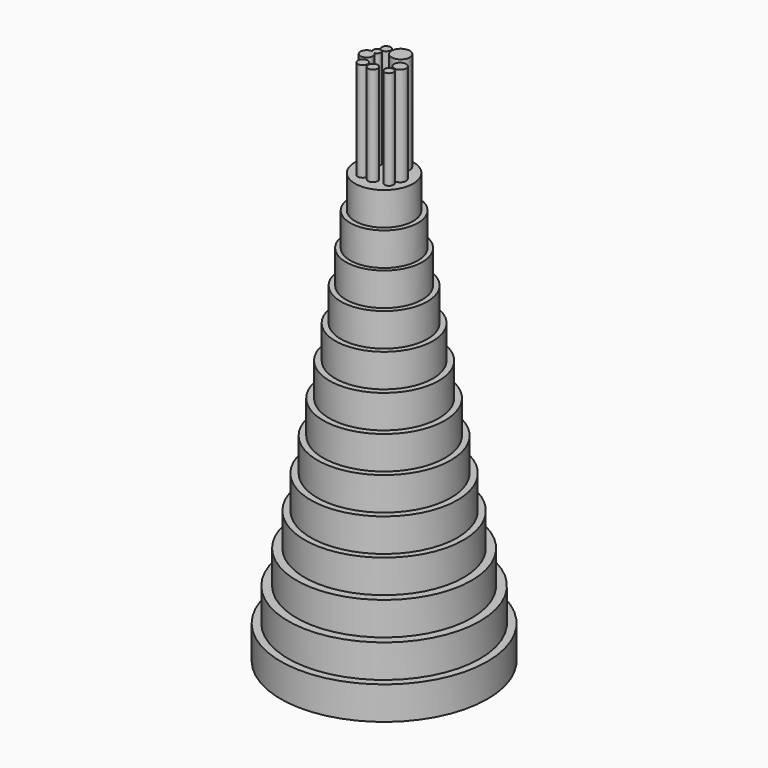
from build123d import *

# Parameters (mm, degrees)
F0_R      = 79.5450036975
F1_DEPTH  = 25.4
F2_R      = 73.7515149203
F3_DEPTH  = 25.4
F4_R      = 67.2732126862
F5_DEPTH  = 25.4
F6_R      = 61.109227751
F7_DEPTH  = 25.4
F8_R      = 56.3027484013
F9_DEPTH  = 25.4
F10_R     = 51.3446313858
F11_DEPTH = 25.4
F12_R     = 46.7578066383
F13_DEPTH = 25.4
F14_R     = 42.0901979961
F15_DEPTH = 25.4
F16_R     = 37.5067154874
F17_DEPTH = 25.4
F18_R     = 33.3373265509
F19_DEPTH = 25.4
F20_R     = 29.4310817061
F21_DEPTH = 25.4
F22_R     = 26.0855959035
F23_DEPTH = 25.4
F24_R     = 22.3736631593
F25_DEPTH = 25.4
F26_R     = 3.4212934719
F26_R_2   = 3.8149535716
F26_R_3   = 4.641761037
F26_R_4   = 3.4439254553
F26_R_5   = 3.753363135
F26_R_6   = 6.9663604667
F27_DEPTH = 76.2


with BuildPart() as f1:
    # F0 (on Top) → F1 (new body)
    with BuildSketch(Plane.XY):
        Circle(F0_R)
    extrude(amount=F1_DEPTH)

    # F2 (on face) → F3 (join)
    with BuildSketch(Plane.XY.offset(25.4)):
        Circle(F2_R)
    extrude(amount=F3_DEPTH)

    # F4 (on face) → F5 (join)
    with BuildSketch(Plane.XY.offset(50.8)):
        Circle(F4_R)
    extrude(amount=F5_DEPTH)

    # F6 (on face) → F7 (join)
    with BuildSketch(Plane.XY.offset(76.2)):
        Circle(F6_R)
    extrude(amount=F7_DEPTH)

    # F8 (on face) → F9 (join)
    with BuildSketch(Plane.XY.offset(101.6)):
        Circle(F8_R)
    extrude(amount=F9_DEPTH)

    # F10 (on face) → F11 (join)
    with BuildSketch(Plane.XY.offset(127)):
        Circle(F10_R)
    extrude(amount=F11_DEPTH)

    # F12 (on face) → F13 (join)
    with BuildSketch(Plane.XY.offset(152.4)):
        Circle(F12_R)
    extrude(amount=F13_DEPTH)

    # F14 (on face) → F15 (join)
    with BuildSketch(Plane.XY.offset(177.8)):
        Circle(F14_R)
    extrude(amount=F15_DEPTH)

    # F16 (on face) → F17 (join)
    with BuildSketch(Plane.XY.offset(203.2)):
        Circle(F16_R)
    extrude(amount=F17_DEPTH)

    # F18 (on face) → F19 (join)
    with BuildSketch(Plane.XY.offset(228.6)):
        Circle(F18_R)
    extrude(amount=F19_DEPTH)

    # F20 (on face) → F21 (join)
    with BuildSketch(Plane.XY.offset(254)):
        Circle(F20_R)
    extrude(amount=F21_DEPTH)

    # F22 (on face) → F23 (join)
    with BuildSketch(Plane.XY.offset(279.4)):
        Circle(F22_R)
    extrude(amount=F23_DEPTH)

    # F24 (on face) → F25 (join)
    with BuildSketch(Plane.XY.offset(304.8)):
        Circle(F24_R)
    extrude(amount=F25_DEPTH)

    # F26 (on face) → F27 (join)
    with BuildSketch(Plane.XY.offset(330.2)):
        with Locations((-8.4204990417, 12.5169595703)):
            Circle(F26_R)
        with BuildLine():
            ThreePointArc((-12.8764627366, 4.7200013898), (-16.9768846981, -3.1594538942), (-8.6752507068, 0))
            ThreePointArc((-8.6752507068, 0), (-9.1506984309, 2.071867738), (-10.4819031466, 3.7291487844))
            ThreePointArc((-10.4819031466, 3.7291487844), (-11.7969854067, 3.9398859003), (-12.8764627366, 4.7200013898))
        make_face()
        with BuildLine():
            ThreePointArc((-12.8764627366, 4.7200013898), (-11.7969854067, 3.9398859003), (-10.4819031466, 3.7291487844))
            ThreePointArc((-10.4819031466, 3.7291487844), (-11.6103347479, 4.3909581613), (-12.8764627366, 4.7200013898))
        make_face()
        with BuildLine():
            ThreePointArc((-12.8764627366, 4.7200013898), (-11.6103347479, 4.3909581613), (-10.4819031466, 3.7291487844))
            ThreePointArc((-10.4819031466, 3.7291487844), (-8.5863196556, 4.6415751091), (-7.8176113456, 6.5998514183))
            ThreePointArc((-7.8176113456, 6.5998514183), (-11.6990310984, 9.298268247), (-12.8764627366, 4.7200013898))
        make_face()
        with Locations((-8.4204990417, -10.0135672837)):
            Circle(F26_R_2)
        with Locations((12.289378792, 0)):
            Circle(F26_R_3)
        with Locations((10.69631055, -8.6480807513)):
            Circle(F26_R_4)
        with Locations((0, -10.69631055)):
            Circle(F26_R_5)
        with Locations((2.7309742291, 12.5169595703)):
            Circle(F26_R_6)
    extrude(amount=F27_DEPTH)


solid = f1.part
